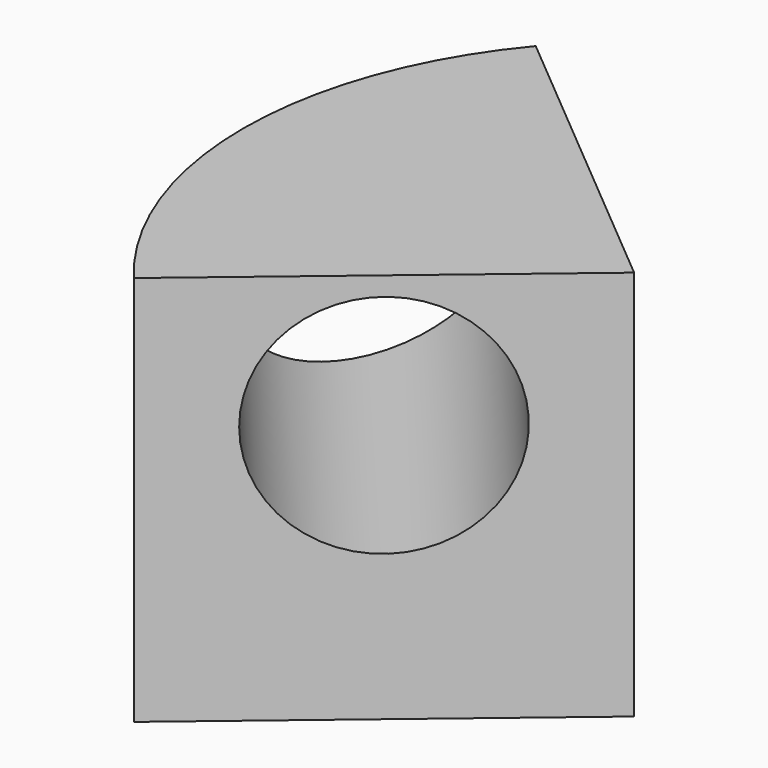
from build123d import *

# Parameters (mm, degrees)
F0_W           = 10
F0_H           = 10
F1_ANGLE_BACK  = 40
F1_ANGLE       = 80
F3_D           = 5.7912
F3_CBORE_D     = 5.7912
F3_CBORE_DEPTH = 1.8542


with BuildPart() as f1:
    # F0 (on Front) → F1 (revolve)
    with BuildSketch(Plane.XZ, mode=Mode.PRIVATE) as f1_sk:
        with Locations((-5, -1.6207385726)):
            Rectangle(F0_W, F0_H)
    revolve(f1_sk.sketch.rotate(Axis((0, 0, -1.6207385726), (0, 0, -1)), -F1_ANGLE_BACK), axis=Axis((0, 0, -1.6207385726), (0, 0, -1)), revolution_arc=F1_ANGLE)

    # F3 (through all)
    with Locations(Plane(origin=(0, 0, 0), x_dir=(0.7660444431, 0.6427876097, 0), z_dir=(0.6427876097, -0.7660444431, 0))):
        with Locations((-5, 0)):
            CounterBoreHole(F3_D / 2, F3_CBORE_D / 2, F3_CBORE_DEPTH)


solid = f1.part
